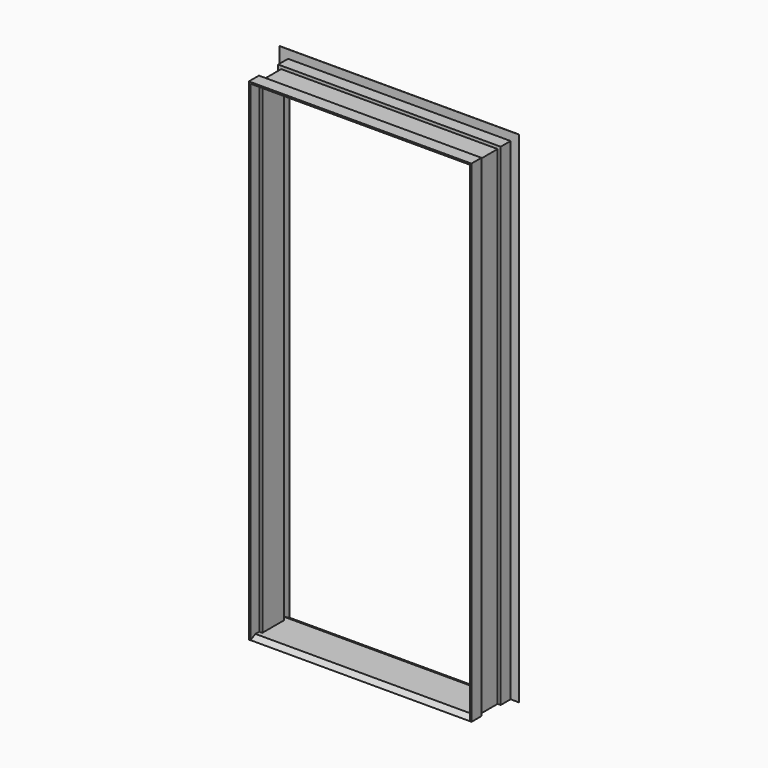
from build123d import *

# Parameters (mm, degrees)
F1_DEPTH  = 2082.8
F3_DEPTH  = 204.7885
F5_DEPTH  = 996.95
F7_DEPTH  = 204.7885
F10_DEPTH = 914.4
F12_DEPTH = 0.79475
F13_W     = 6.35
F13_H     = 100.0125
F14_DEPTH = 2082.801


with BuildPart() as f1:
    # F0 (on Top) → F1 (new body)
    with BuildSketch(Plane.XY):
        Polygon((-41.275, 46.0375), (-41.275, 0), (0, 0), (0, 0.79375), (-34.925, 0.79375), (-34.925, 52.3875), (-47.625, 52.3875), (-47.625, 152.4), (-34.925, 152.4), (-34.925, 203.99375), (0, 203.99375), (0, 204.7875), (-41.275, 204.7875), (-41.275, 158.75), (-53.975, 158.75), (-53.975, 46.0375), align=None)
    extrude(amount=F1_DEPTH)


with BuildPart() as f1b:
    # F0 (on Top) → F1, piece 2 (new body)
    with BuildSketch(Plane.XY):
        Polygon((-996.95, 0.79375), (-996.95, 0), (-955.675, 0), (-955.675, 46.0375), (-942.975, 46.0375), (-942.975, 158.75), (-955.675, 158.75), (-955.675, 204.7875), (-996.95, 204.7875), (-996.95, 203.99375), (-962.025, 203.99375), (-962.025, 152.4), (-949.325, 152.4), (-949.325, 52.3875), (-962.025, 52.3875), (-962.025, 0.79375), align=None)
    extrude(amount=F1_DEPTH)


with BuildPart() as f3_tool:
    # F2 (on Front) → F3 (new body, through all)
    with BuildSketch(Plane.XZ):
        Polygon((0, 2082.8), (-996.95, 2082.8), (-498.475, 1584.325), align=None)
    extrude(amount=-F3_DEPTH)


with BuildPart() as f1_1:
    add(f1.part)

    # F3: cut by f3_tool
    add(f3_tool.part, mode=Mode.SUBTRACT)


with BuildPart() as f1b_1:
    add(f1b.part)

    # F3: cut by f3_tool
    add(f3_tool.part, mode=Mode.SUBTRACT)


with BuildPart() as f5:
    # F4 (on Right) → F5 (new body, through all)
    with BuildSketch(Plane.YZ):
        Polygon((158.75, 2041.525), (204.7875, 2041.525), (204.7875, 2082.8), (203.99375, 2082.8), (203.99375, 2047.875), (152.4, 2047.875), (152.4, 2035.175), (52.3875, 2035.175), (52.3875, 2047.875), (0.79375, 2047.875), (0.79375, 2082.8), (0, 2082.8), (0, 2041.525), (46.0375, 2041.525), (46.0375, 2028.825), (158.75, 2028.825), align=None)
    extrude(amount=-F5_DEPTH)

    # F6 (on Front) → F7 (cut, through all)
    with BuildSketch(Plane.XZ):
        Polygon((0, 2082.8), (-498.475, 1584.325), (304.8, 1584.325), (304.8, 2082.8), align=None)
        Polygon((-498.475, 1584.325), (-996.95, 2082.8), (-1301.75, 2082.8), (-1301.75, 1584.325), align=None)
    extrude(amount=-F7_DEPTH, mode=Mode.SUBTRACT)


with BuildPart() as f1_2:
    add(f1_1.part)

    # F8: union F1b, F5
    add(f1b_1.part)
    add(f5.part)

    # F9 (on face) → F10 (join, through all)
    with BuildSketch(Plane(origin=(-41.275, 0, 0), x_dir=(0, -1, 0), z_dir=(-1, 0, 0))):
        Polygon((-203.99375, 0), (-102.39375, 0), (-0.79375, 0), (-26.19375, 12.7), (-102.39375, 12.7), (-178.59375, 12.7), align=None)
    extrude(amount=F10_DEPTH)

    # F11 (on face) → F12 (cut, through all)
    with BuildSketch(Plane(origin=(0, 0.79375, 0), x_dir=(-1, 0, 0), z_dir=(0, 1, 0))):
        Polygon((34.9250000001, 2047.875), (962.025, 2047.875), (962.025, 0), (996.95, 0), (996.95, 2082.8), (1e-10, 2082.8), (0, 0), (34.925, 0), align=None)
    extrude(amount=-F12_DEPTH, mode=Mode.SUBTRACT)

    # F13 (on Top) → F14 (cut, through all)
    with BuildSketch(Plane.XY):
        with Locations((-44.45, 102.39375)):
            Rectangle(F13_W, F13_H)
        with Locations((-952.5, 102.39375)):
            Rectangle(F13_W, F13_H)
    extrude(amount=F14_DEPTH, mode=Mode.SUBTRACT)


solid = f1_2.part
